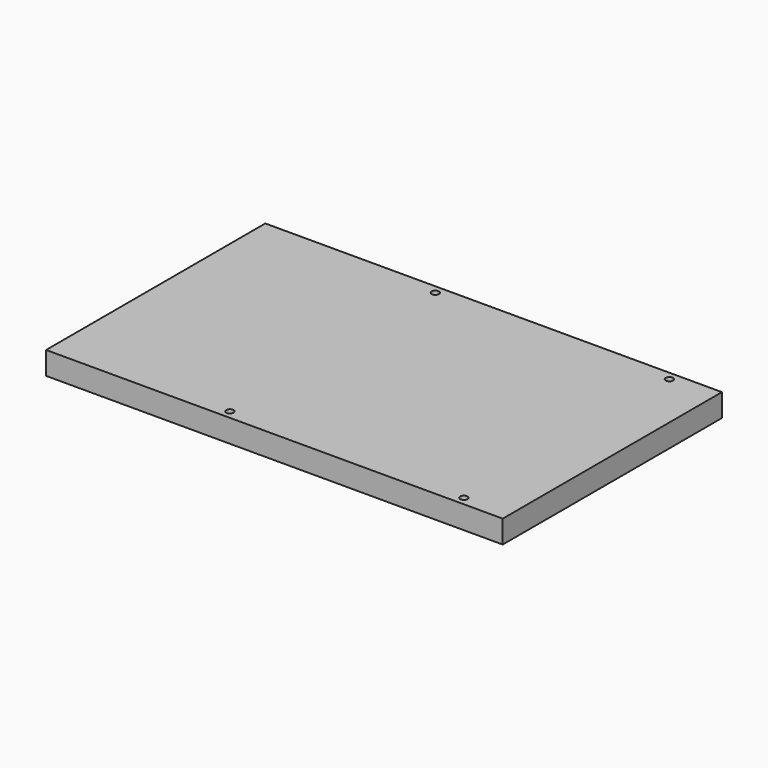
from build123d import *

# Parameters (mm, degrees)
F0_W     = 508
F0_H     = 304.8
F1_DEPTH = 25.4
F2_R     = 4.064
F3_DEPTH = 25.401


with BuildPart() as f1:
    # F0 (on Top) → F1 (new body)
    with BuildSketch(Plane.XY):
        Rectangle(F0_W, F0_H)
    extrude(amount=F1_DEPTH)

    # F2 (on face) → F3 (cut, through all)
    with BuildSketch(Plane(origin=(0, 0, 0), x_dir=(1, 0, 0), z_dir=(0, 0, -1))):
        with Locations((-57.15, 142.875)):
            Circle(F2_R)
        with Locations((203.2, 142.875)):
            Circle(F2_R)
        with Locations((203.2, -142.875)):
            Circle(F2_R)
        with Locations((-57.15, -142.875)):
            Circle(F2_R)
    extrude(amount=-F3_DEPTH, mode=Mode.SUBTRACT)


solid = f1.part
